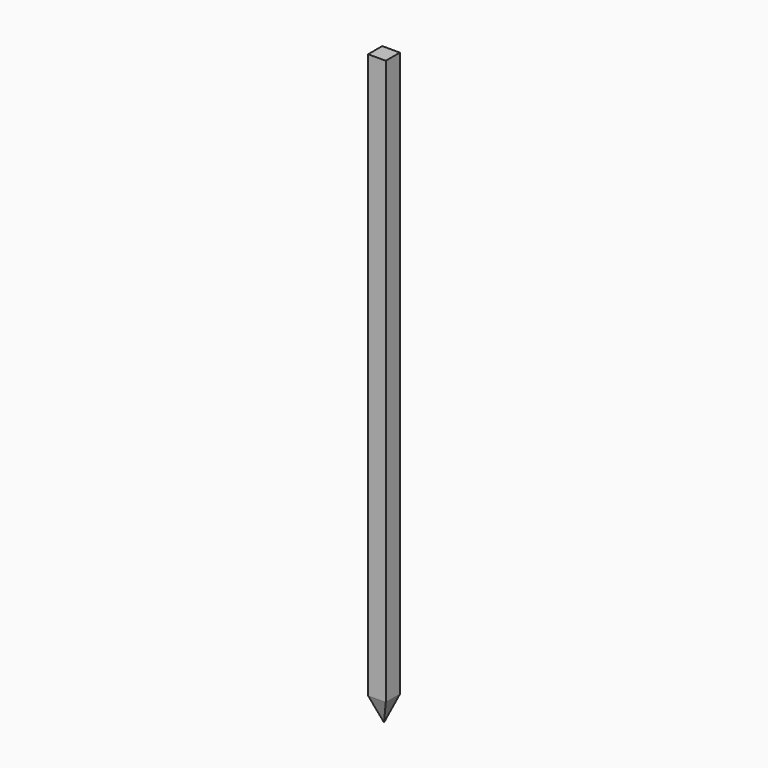
from build123d import *

# Parameters (mm, degrees)
F0_W     = 60
F0_H     = 60
F1_DEPTH = 2000
F2_SIZE2 = 29.117619
F2_SIZE  = 80


with BuildPart() as f1:
    # F0 (on Top) → F1 (new body)
    with BuildSketch(Plane.XY):
        Rectangle(F0_W, F0_H)
    extrude(amount=-F1_DEPTH)

    # F2
    f2_edges = [f1.edges().sort_by_distance(p)[0] for p in [
        (30, 0, -2000),
        (0, 30, -2000),
        (-30, 0, -2000),
        (0, -30, -2000),
    ]]
    chamfer(f2_edges, length=F2_SIZE, length2=F2_SIZE2)


solid = f1.part
